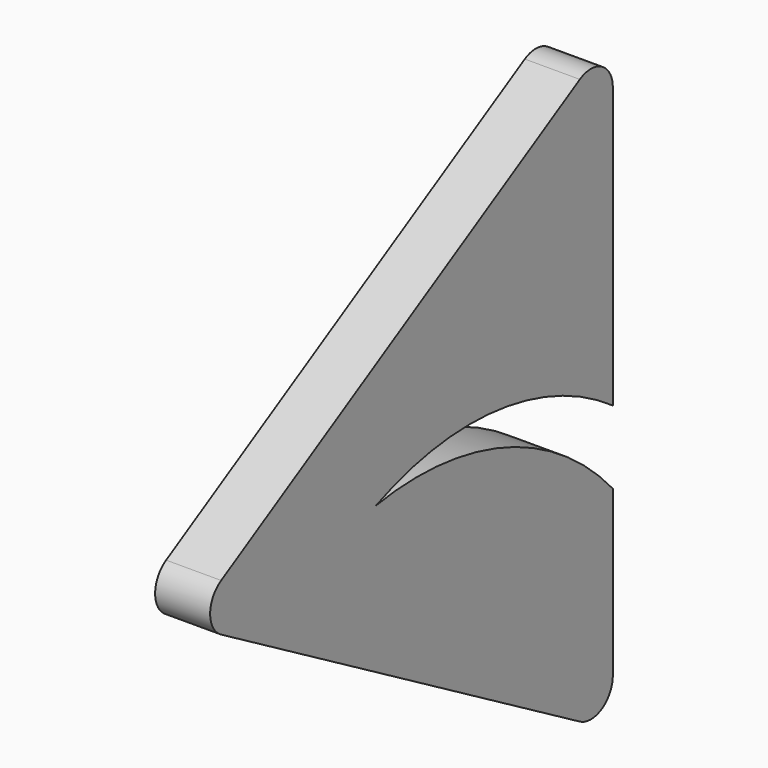
from build123d import *

# Parameters (mm, degrees)
F1_DEPTH = 25.4


with BuildPart() as f1:
    # F0 (on Right) → F1 (new body)
    with BuildSketch(Plane.YZ):
        with BuildLine():
            Line((-286.713154, 130.47234), (-493.647875, 10.998523))
            ThreePointArc((-493.647875, 10.998523), (-499.997875, 0), (-493.647875, -10.998523))
            Line((-493.647875, -10.998523), (-286.713154, -130.47234))
            ThreePointArc((-286.713154, -130.47234), (-274.013154, -130.47234), (-267.663154, -119.473817))
            Line((-267.663154, -119.473817), (-267.663154, -43.566099))
            ThreePointArc((-267.663154, -43.566099), (-329.665652, -1.565979), (-404.252522, 5.151075))
            ThreePointArc((-404.252522, 5.151075), (-334.027843, 15.345169), (-267.663154, -9.777591))
            Line((-267.663154, -9.777591), (-267.663154, 119.473817))
            ThreePointArc((-267.663154, 119.473817), (-274.013154, 130.47234), (-286.713154, 130.47234))
        make_face()
    extrude(amount=F1_DEPTH)


solid = f1.part
